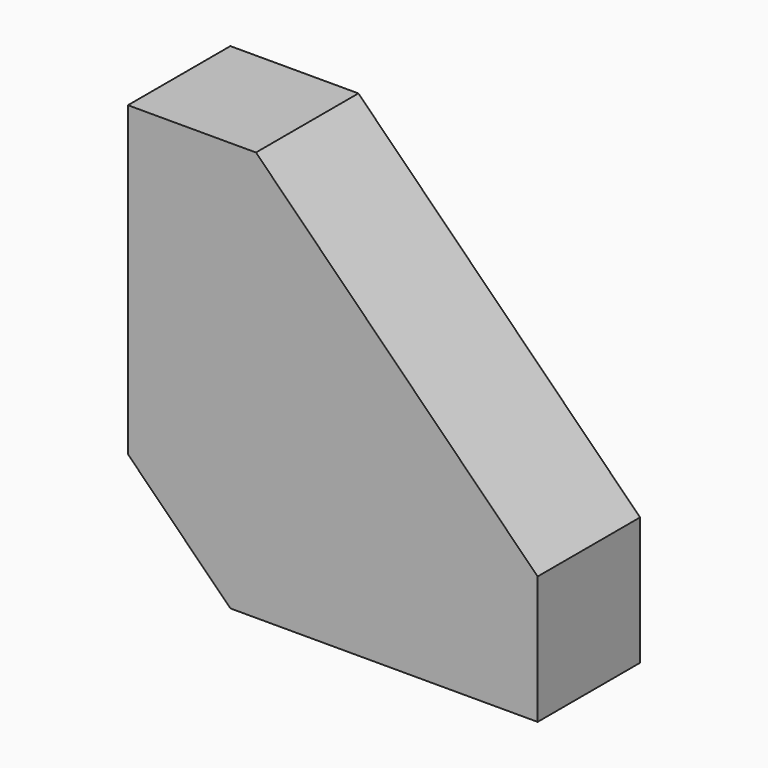
from build123d import *

# Parameters (mm, degrees)
F1_DEPTH = 12.5


with BuildPart() as f1:
    # F0 (on Front) → F1 (new body, symmetric)
    with BuildSketch(Plane.XZ):
        Polygon((2450, 20), (2470, 0), (2530, 0), (2530, 25), (2475, 80), (2450, 80), align=None)
    extrude(amount=F1_DEPTH, both=True)


with BuildPart() as f2_1:
    # F2: copy of F1
    add(f1.part)


solid = f1.part
